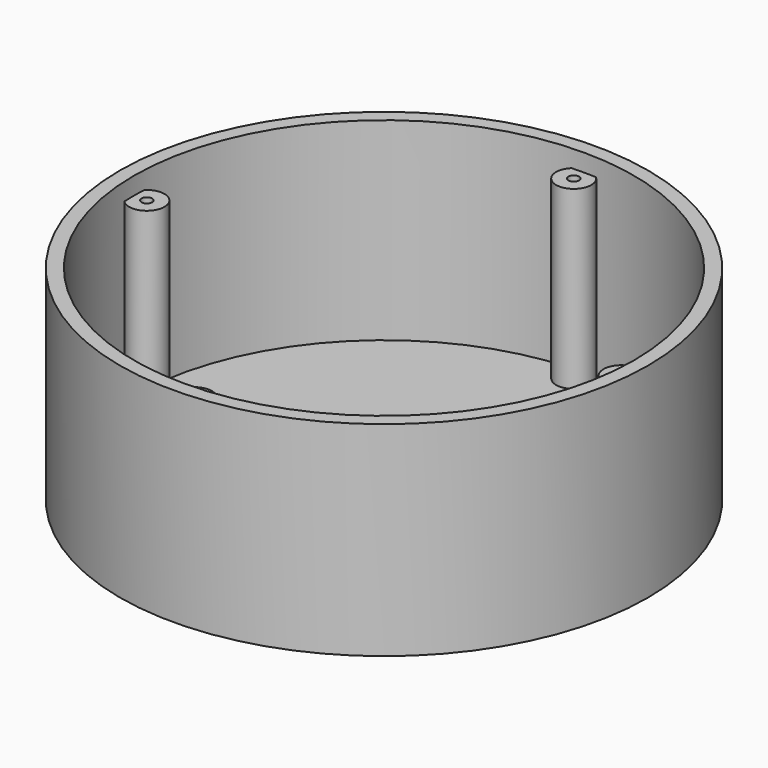
from build123d import *

# Parameters (mm, degrees)
F0_R     = 75
F1_DEPTH = 3
F2_R     = 75
F2_R_2   = 71
F3_DEPTH = 55
F4_R     = 5
F4_R_2   = 1.5
F5_DEPTH = 50


with BuildPart() as f1:
    # F0 (on Top) → F1 (new body)
    with BuildSketch(Plane.XY):
        Circle(F0_R)
    extrude(amount=F1_DEPTH)

    # F2 (on face) → F3 (join)
    with BuildSketch(Plane.XY.offset(3)):
        Circle(F2_R)
        Circle(F2_R_2, mode=Mode.SUBTRACT)
    extrude(amount=F3_DEPTH)

    # F4 (on face) → F5 (join)
    with BuildSketch(Plane.XY.offset(3)):
        with Locations((0, 67.343959)):
            Circle(F4_R)
        with Locations((0, 67.343959)):
            Circle(F4_R_2, mode=Mode.SUBTRACT)
        with Locations((-67.343959, 0)):
            Circle(F4_R)
        with Locations((-67.343959, 0)):
            Circle(F4_R_2, mode=Mode.SUBTRACT)
        with Locations((0, -67.343959)):
            Circle(F4_R)
        with Locations((0, -67.343959)):
            Circle(F4_R_2, mode=Mode.SUBTRACT)
        with Locations((67.343959, 0)):
            Circle(F4_R)
        with Locations((67.343959, 0)):
            Circle(F4_R_2, mode=Mode.SUBTRACT)
    extrude(amount=F5_DEPTH)


solid = f1.part
